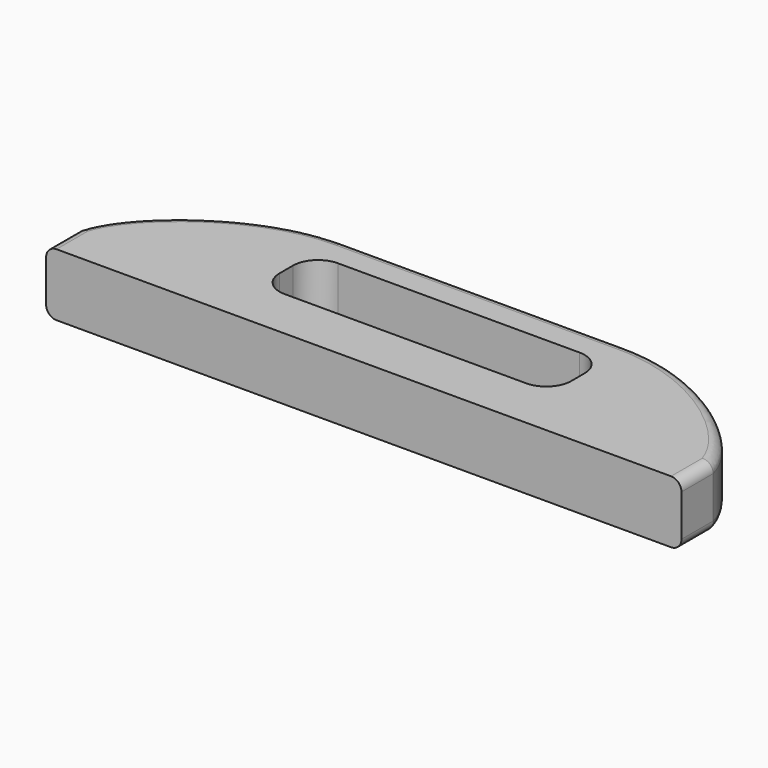
from build123d import *

# Parameters (mm, degrees)
PAD_DEPTH = 3
FILLET_R  = 0.5


with BuildPart() as part:
    # Sketch → Pad (new body)
    with BuildSketch(Plane.XY):
        with BuildLine():
            Line((-15.25, -0.9), (15.25, -0.9))
            Line((15.25, -0.9), (15.25, 1))
            add(Edge.make_bspline(
                [(15.25, 1), (14.71, 3.169919), (10.787972, 6.432961), (6.75, 6.4)],
                knots=[0, 0, 0, 0, 1, 1, 1, 1], degree=3))
            Line((6.75, 6.4), (-6.75, 6.4))
            add(Edge.make_bspline(
                [(-15.25, 1), (-14.71, 3.169919), (-10.787972, 6.432961), (-6.75, 6.4)],
                knots=[0, 0, 0, 0, 1, 1, 1, 1], degree=3))
            Line((-15.25, 1), (-15.25, -0.9))
        make_face()
        with BuildLine():
            Line((7, 2.8), (7, 3.6))
            ThreePointArc((7, 3.6), (6.648528, 4.448528), (5.8, 4.8))
            Line((5.8, 4.8), (-5.8, 4.8))
            ThreePointArc((-5.8, 4.8), (-6.648528, 4.448528), (-7, 3.6))
            Line((-7, 3.6), (-7, 2.8))
            ThreePointArc((-7, 2.8), (-6.648528, 1.951472), (-5.8, 1.6))
            Line((-5.8, 1.6), (5.8, 1.6))
            ThreePointArc((5.8, 1.6), (6.648528, 1.951472), (7, 2.8))
        make_face(mode=Mode.SUBTRACT)
    extrude(amount=PAD_DEPTH)

    # Fillet
    fillet_edges = [part.edges().sort_by_distance(p)[0] for p in [
        (11.77398, 4.878889, 3),
        (0, 6.4, 3),
        (-11.77398, 4.878889, 3),
        (15.25, 0.05, 3),
        (-15.25, 0.05, 3),
        (-15.25, 0.05, 0),
        (-11.77398, 4.878889, 0),
        (0, 6.4, 0),
        (11.77398, 4.878889, 0),
        (15.25, 0.05, 0),
    ]]
    fillet(fillet_edges, radius=FILLET_R)


solid = part.part
